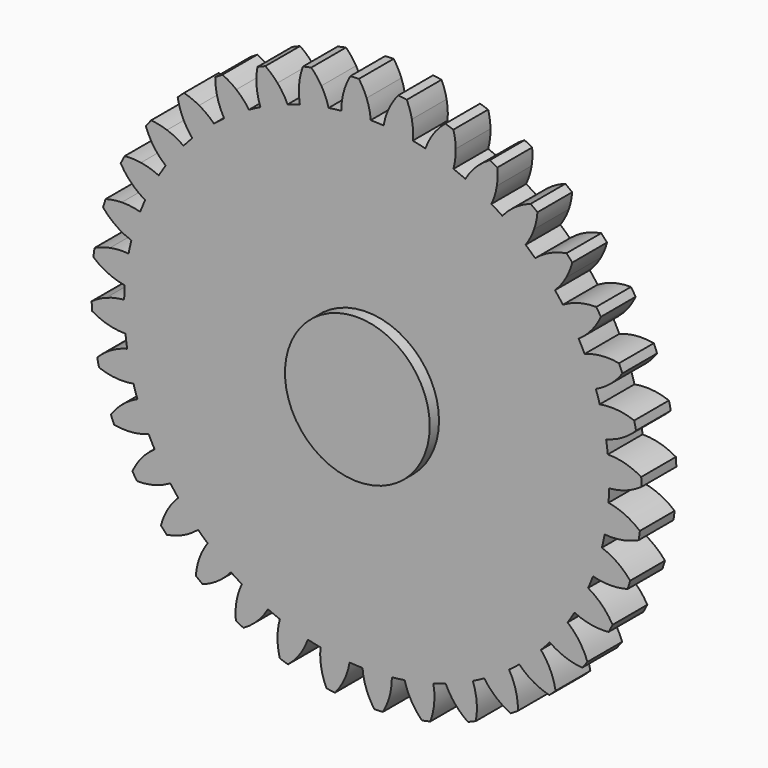
from build123d import *

# Parameters (mm, degrees)
F0_R     = 25
F1_DEPTH = 15
F2_COUNT = 36
F3_DEPTH = 4
F4_DEPTH = 23


with BuildPart() as f1:
    # F0 (on Front) → F1 (new body)
    with BuildSketch(Plane.XZ):
        with BuildLine():
            ThreePointArc((-8.7190556623, 83.2949012146), (-3.6531236918, 83.6702885575), (1.4262480407, 83.7378547404))
            ThreePointArc((1.4262480407, 83.7378547404), (0.9377107983, 86.9200786033), (0, 90))
            ThreePointArc((0, 90), (-1.1760420962, 92.5650071018), (-2.663884374, 94.9626438135))
            ThreePointArc((-2.663884374, 94.9626438135), (-4.1438417997, 94.9095810503), (-5.6227922652, 94.833455105))
            ThreePointArc((-5.6227922652, 94.833455105), (-6.8960050455, 92.3152681261), (-7.8440168473, 89.6575228283))
            ThreePointArc((-7.8440168473, 89.6575228283), (-8.509726536, 86.5075945813), (-8.7190556623, 83.2949012146))
        make_face()
        with BuildLine():
            ThreePointArc((-8.7190556623, 83.2949012146), (-56.0528393049, -62.2265353837), (83.75, 0))
            ThreePointArc((83.75, 0), (59.7223189997, 58.7137727735), (1.4262480407, 83.7378547404))
            ThreePointArc((1.4262480407, 83.7378547404), (-3.6531236918, 83.6702885575), (-8.7190556623, 83.2949012146))
        make_face()
        Circle(F0_R, mode=Mode.SUBTRACT)
        Circle(F0_R)
    extrude(amount=F1_DEPTH)


with BuildPart() as f2_1:
    # F2: instance of F1
    add(f1.part.rotate(Axis((0, 0, 0), (0, 1, 0)), 1 * 360 / F2_COUNT))


with BuildPart() as f2_2:
    # F2: instance of F1
    add(f1.part.rotate(Axis((0, 0, 0), (0, 1, 0)), 2 * 360 / F2_COUNT))


with BuildPart() as f2_3:
    # F2: instance of F1
    add(f1.part.rotate(Axis((0, 0, 0), (0, 1, 0)), 3 * 360 / F2_COUNT))


with BuildPart() as f2_4:
    # F2: instance of F1
    add(f1.part.rotate(Axis((0, 0, 0), (0, 1, 0)), 4 * 360 / F2_COUNT))


with BuildPart() as f2_5:
    # F2: instance of F1
    add(f1.part.rotate(Axis((0, 0, 0), (0, 1, 0)), 5 * 360 / F2_COUNT))


with BuildPart() as f2_6:
    # F2: instance of F1
    add(f1.part.rotate(Axis((0, 0, 0), (0, 1, 0)), 6 * 360 / F2_COUNT))


with BuildPart() as f2_7:
    # F2: instance of F1
    add(f1.part.rotate(Axis((0, 0, 0), (0, 1, 0)), 7 * 360 / F2_COUNT))


with BuildPart() as f2_8:
    # F2: instance of F1
    add(f1.part.rotate(Axis((0, 0, 0), (0, 1, 0)), 8 * 360 / F2_COUNT))


with BuildPart() as f2_9:
    # F2: instance of F1
    add(f1.part.rotate(Axis((0, 0, 0), (0, 1, 0)), 9 * 360 / F2_COUNT))


with BuildPart() as f2_10:
    # F2: instance of F1
    add(f1.part.rotate(Axis((0, 0, 0), (0, 1, 0)), 10 * 360 / F2_COUNT))


with BuildPart() as f2_11:
    # F2: instance of F1
    add(f1.part.rotate(Axis((0, 0, 0), (0, 1, 0)), 11 * 360 / F2_COUNT))


with BuildPart() as f2_12:
    # F2: instance of F1
    add(f1.part.rotate(Axis((0, 0, 0), (0, 1, 0)), 12 * 360 / F2_COUNT))


with BuildPart() as f2_13:
    # F2: instance of F1
    add(f1.part.rotate(Axis((0, 0, 0), (0, 1, 0)), 13 * 360 / F2_COUNT))


with BuildPart() as f2_14:
    # F2: instance of F1
    add(f1.part.rotate(Axis((0, 0, 0), (0, 1, 0)), 14 * 360 / F2_COUNT))


with BuildPart() as f2_15:
    # F2: instance of F1
    add(f1.part.rotate(Axis((0, 0, 0), (0, 1, 0)), 15 * 360 / F2_COUNT))


with BuildPart() as f2_16:
    # F2: instance of F1
    add(f1.part.rotate(Axis((0, 0, 0), (0, 1, 0)), 16 * 360 / F2_COUNT))


with BuildPart() as f2_17:
    # F2: instance of F1
    add(f1.part.rotate(Axis((0, 0, 0), (0, 1, 0)), 17 * 360 / F2_COUNT))


with BuildPart() as f2_18:
    # F2: instance of F1
    add(f1.part.rotate(Axis((0, 0, 0), (0, 1, 0)), 18 * 360 / F2_COUNT))


with BuildPart() as f2_19:
    # F2: instance of F1
    add(f1.part.rotate(Axis((0, 0, 0), (0, 1, 0)), 19 * 360 / F2_COUNT))


with BuildPart() as f2_20:
    # F2: instance of F1
    add(f1.part.rotate(Axis((0, 0, 0), (0, 1, 0)), 20 * 360 / F2_COUNT))


with BuildPart() as f2_21:
    # F2: instance of F1
    add(f1.part.rotate(Axis((0, 0, 0), (0, 1, 0)), 21 * 360 / F2_COUNT))


with BuildPart() as f2_22:
    # F2: instance of F1
    add(f1.part.rotate(Axis((0, 0, 0), (0, 1, 0)), 22 * 360 / F2_COUNT))


with BuildPart() as f2_23:
    # F2: instance of F1
    add(f1.part.rotate(Axis((0, 0, 0), (0, 1, 0)), 23 * 360 / F2_COUNT))


with BuildPart() as f2_24:
    # F2: instance of F1
    add(f1.part.rotate(Axis((0, 0, 0), (0, 1, 0)), 24 * 360 / F2_COUNT))


with BuildPart() as f2_25:
    # F2: instance of F1
    add(f1.part.rotate(Axis((0, 0, 0), (0, 1, 0)), 25 * 360 / F2_COUNT))


with BuildPart() as f2_26:
    # F2: instance of F1
    add(f1.part.rotate(Axis((0, 0, 0), (0, 1, 0)), 26 * 360 / F2_COUNT))


with BuildPart() as f2_27:
    # F2: instance of F1
    add(f1.part.rotate(Axis((0, 0, 0), (0, 1, 0)), 27 * 360 / F2_COUNT))


with BuildPart() as f2_28:
    # F2: instance of F1
    add(f1.part.rotate(Axis((0, 0, 0), (0, 1, 0)), 28 * 360 / F2_COUNT))


with BuildPart() as f2_29:
    # F2: instance of F1
    add(f1.part.rotate(Axis((0, 0, 0), (0, 1, 0)), 29 * 360 / F2_COUNT))


with BuildPart() as f2_30:
    # F2: instance of F1
    add(f1.part.rotate(Axis((0, 0, 0), (0, 1, 0)), 30 * 360 / F2_COUNT))


with BuildPart() as f2_31:
    # F2: instance of F1
    add(f1.part.rotate(Axis((0, 0, 0), (0, 1, 0)), 31 * 360 / F2_COUNT))


with BuildPart() as f2_32:
    # F2: instance of F1
    add(f1.part.rotate(Axis((0, 0, 0), (0, 1, 0)), 32 * 360 / F2_COUNT))


with BuildPart() as f2_33:
    # F2: instance of F1
    add(f1.part.rotate(Axis((0, 0, 0), (0, 1, 0)), 33 * 360 / F2_COUNT))


with BuildPart() as f2_34:
    # F2: instance of F1
    add(f1.part.rotate(Axis((0, 0, 0), (0, 1, 0)), 34 * 360 / F2_COUNT))


with BuildPart() as f2_35:
    # F2: instance of F1
    add(f1.part.rotate(Axis((0, 0, 0), (0, 1, 0)), 35 * 360 / F2_COUNT))


with BuildPart() as f1_1:
    add(f1.part)

    add(f2_1.part)  # F3 merges F2_1

    add(f2_2.part)  # F3 merges F2_2

    add(f2_3.part)  # F3 merges F2_3

    add(f2_4.part)  # F3 merges F2_4

    add(f2_5.part)  # F3 merges F2_5

    add(f2_6.part)  # F3 merges F2_6

    add(f2_7.part)  # F3 merges F2_7

    add(f2_8.part)  # F3 merges F2_8

    add(f2_9.part)  # F3 merges F2_9

    add(f2_10.part)  # F3 merges F2_10

    add(f2_11.part)  # F3 merges F2_11

    add(f2_12.part)  # F3 merges F2_12

    add(f2_13.part)  # F3 merges F2_13

    add(f2_14.part)  # F3 merges F2_14

    add(f2_15.part)  # F3 merges F2_15

    add(f2_16.part)  # F3 merges F2_16

    add(f2_17.part)  # F3 merges F2_17

    add(f2_18.part)  # F3 merges F2_18

    add(f2_19.part)  # F3 merges F2_19

    add(f2_20.part)  # F3 merges F2_20

    add(f2_21.part)  # F3 merges F2_21

    add(f2_22.part)  # F3 merges F2_22

    add(f2_23.part)  # F3 merges F2_23

    add(f2_24.part)  # F3 merges F2_24

    add(f2_25.part)  # F3 merges F2_25

    add(f2_26.part)  # F3 merges F2_26

    add(f2_27.part)  # F3 merges F2_27

    add(f2_28.part)  # F3 merges F2_28

    add(f2_29.part)  # F3 merges F2_29

    add(f2_30.part)  # F3 merges F2_30

    add(f2_31.part)  # F3 merges F2_31

    add(f2_32.part)  # F3 merges F2_32

    add(f2_33.part)  # F3 merges F2_33

    add(f2_34.part)  # F3 merges F2_34

    add(f2_35.part)  # F3 merges F2_35
    # F0 (on Front) → F3 (join)
    with BuildSketch(Plane.XZ):
        Circle(F0_R)
    extrude(amount=-F3_DEPTH)

    # F4 (add): a face of the model
    f4_faces = [f1_1.faces().sort_by_distance(p)[0] for p in [
        (0, 4, 0),
    ]]
    extrude(f4_faces, amount=-F4_DEPTH)


solid = f1_1.part
